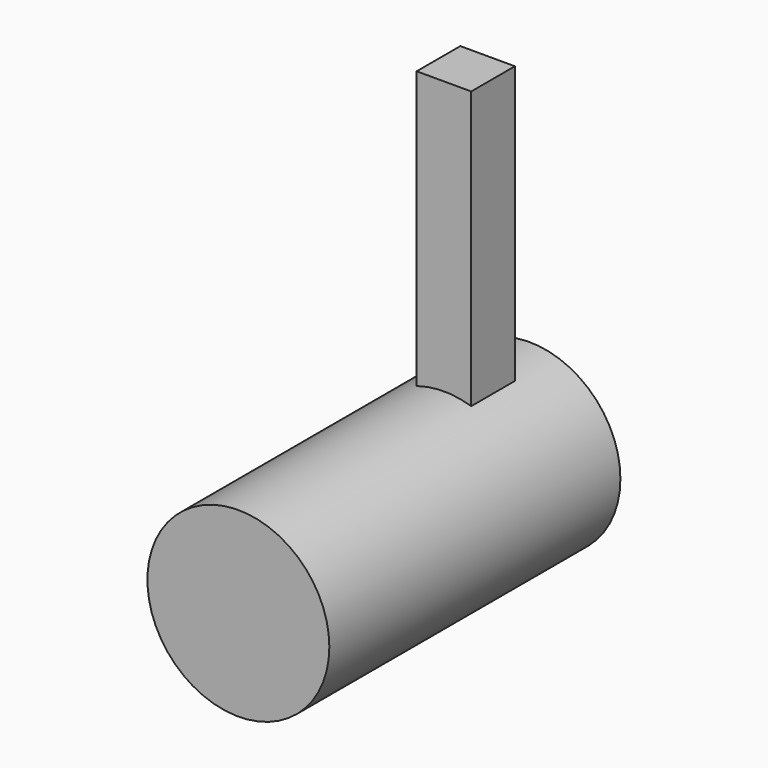
from build123d import *

# Parameters (mm, degrees)
F0_R     = 6.35
F1_DEPTH = 12.7
F2_W     = 3.81
F2_H     = 3.81
F3_DEPTH = 25.4


with BuildPart() as f1:
    # F0 (on Front) → F1 (new body, symmetric)
    with BuildSketch(Plane.XZ):
        Circle(F0_R)
    extrude(amount=F1_DEPTH, both=True)

    # F2 (on Top) → F3 (join)
    with BuildSketch(Plane.XY):
        with Locations((0, 7.143756)):
            Rectangle(F2_W, F2_H)
    extrude(amount=F3_DEPTH)


solid = f1.part
